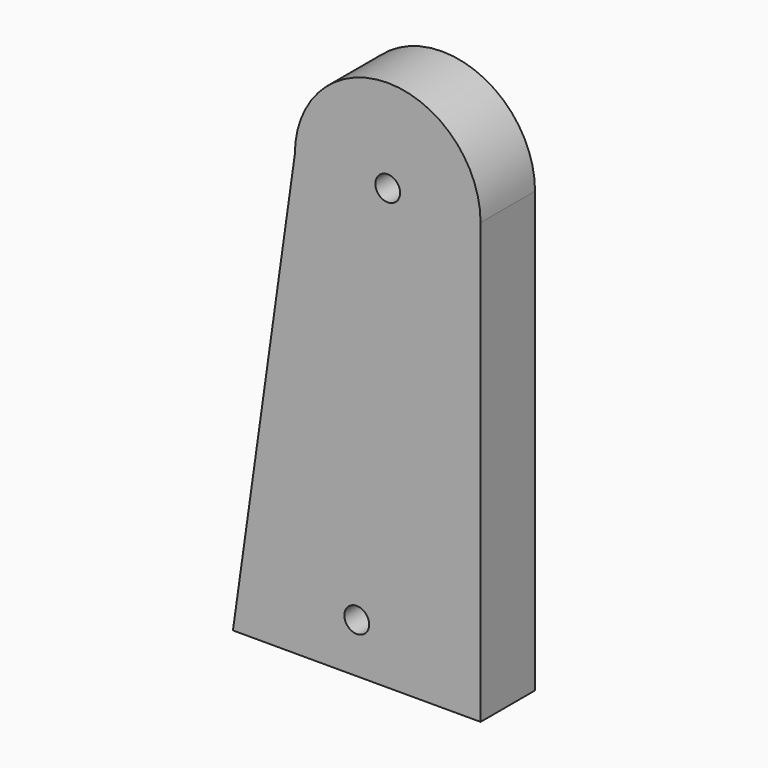
from build123d import *

# Parameters (mm, degrees)
F0_R      = 1
F1_DEPTH  = 5.5
F2_W      = 5.5
F2_H      = 57
F3_DEPTH  = 25
F4_DEPTH  = 5
F6_DEPTH  = 25
F7_W      = 8
F7_H      = 8
F8_DEPTH  = 1.5
F9_R      = 1
F10_DEPTH = 25


with BuildPart() as f1:
    # F0 (on Front) → F1 (new body)
    with BuildSketch(Plane.XZ):
        with BuildLine():
            ThreePointArc((-37.7052051574, 84.6366998268), (-39.9019042985, 89.9400006857), (-45.2052051574, 92.1366998268))
            ThreePointArc((-45.2052051574, 92.1366998268), (-50.5085060163, 89.9400006857), (-52.7052051574, 84.6366998268))
            ThreePointArc((-52.7052051574, 84.6366998268), (-45.2052051574, 77.1366998268), (-37.7052051574, 84.6366998268))
        make_face()
        with Locations((-45.2052051574, 84.6366998268)):
            Circle(F0_R, mode=Mode.SUBTRACT)
        with BuildLine():
            ThreePointArc((-37.7052051574, 84.6366998268), (-45.2052051574, 77.1366998268), (-52.7052051574, 84.6366998268))
            Line((-52.7052051574, 84.6366998268), (-52.7052051574, -7.8633001732))
            Line((-52.7052051574, -7.8633001732), (-37.7052051574, -7.8633001732))
            Line((-37.7052051574, -7.8633001732), (-37.7052051574, 84.6366998268))
        make_face()
    extrude(amount=F1_DEPTH)

    # F2 (on face) → F3 (cut)
    with BuildSketch(Plane(origin=(-52.7052051574, 0, 0), x_dir=(0, -1, 0), z_dir=(-1, 0, 0))):
        with Locations((2.75, 20.6366998268)):
            Rectangle(F2_W, F2_H)
    extrude(amount=-F3_DEPTH, mode=Mode.SUBTRACT)

    # F4 (add): a face of the model
    f4_faces = [f1.faces().sort_by_distance(p)[0] for p in [
        (-52.7052051574, -2.75, 66.8866998268),
    ]]
    extrude(f4_faces, amount=F4_DEPTH)

    # F5 (on face) → F6 (cut)
    with BuildSketch(Plane.XZ.offset(5.5)):
        Polygon((-57.7052051574, 49.1366998268), (-52.7052051574, 84.6366998268), (-57.7052051574, 84.6366998268), align=None)
    extrude(amount=-F6_DEPTH, mode=Mode.SUBTRACT)

    # F7 (on face) → F8 (join)
    with BuildSketch(Plane(origin=(0, 0, 0), x_dir=(-1, 0, 0), z_dir=(0, 1, 0))):
        with Locations((47.7052051574, 53.1366998268)):
            Rectangle(F7_W, F7_H)
    extrude(amount=F8_DEPTH)

    # F9 (on face) → F10 (cut)
    with BuildSketch(Plane(origin=(0, 1.5, 0), x_dir=(-1, 0, 0), z_dir=(0, 1, 0))):
        with Locations((47.7052051574, 53.1366998268)):
            Circle(F9_R)
    extrude(amount=-F10_DEPTH, mode=Mode.SUBTRACT)


solid = f1.part
